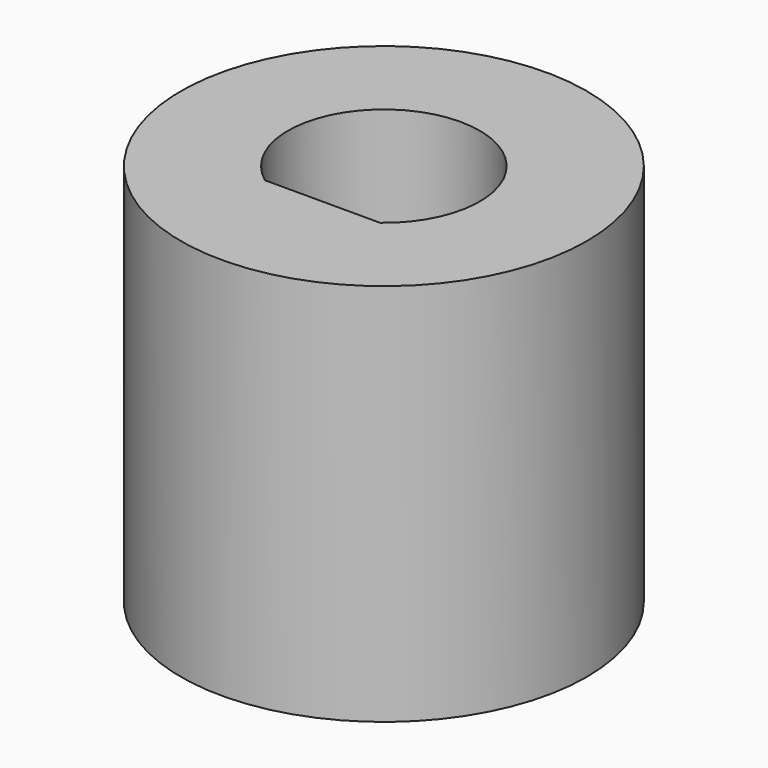
from build123d import *

# Parameters (mm, degrees)
F0_R     = 6.35
F1_DEPTH = 12
F3_DEPTH = 12.001


with BuildPart() as f1:
    # F0 (on Top) → F1 (new body)
    with BuildSketch(Plane.XY):
        Circle(F0_R)
    extrude(amount=F1_DEPTH)

    # F2 (on face) → F3 (cut, through all)
    with BuildSketch(Plane.XY.offset(12)):
        with BuildLine():
            ThreePointArc((1.8, -2.4), (0, 3), (-1.8, -2.4))
            Line((-1.8, -2.4), (1.8, -2.4))
        make_face()
    extrude(amount=-F3_DEPTH, mode=Mode.SUBTRACT)


solid = f1.part
